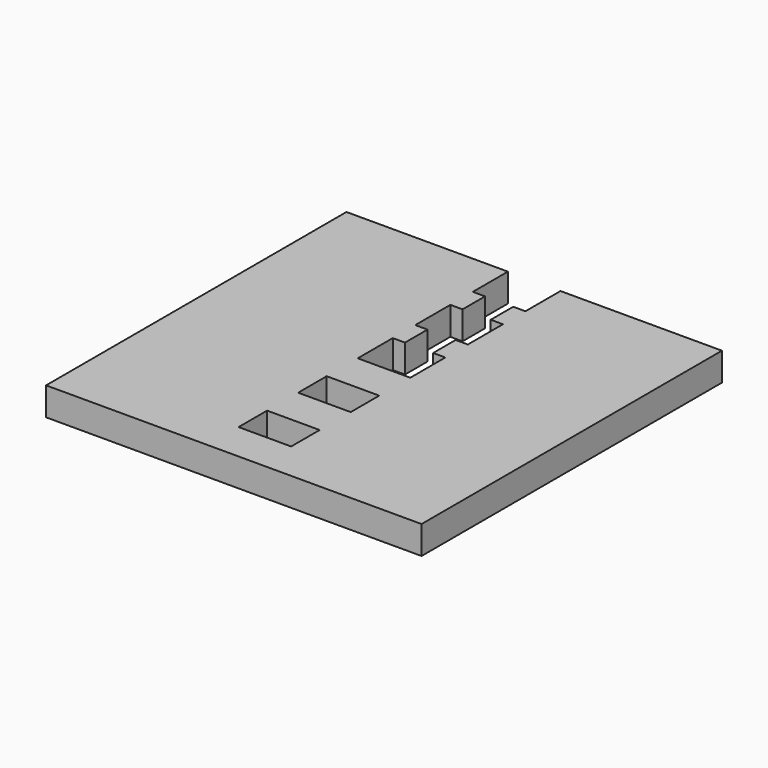
from build123d import *

# Parameters (mm, degrees)
F2_DEPTH = 1.875
F4_W     = 7
F4_H     = 4.75
F5_DEPTH = 25


with BuildPart() as f2:
    # F1 (on Top) → F2 (new body, symmetric)
    with BuildSketch(Plane.XY):
        Polygon((-25, -25), (0, -25), (0, 0), (-3.5, 0), (-3.5, 5.8333333333), (-1.875, 5.8333333333), (-1.875, 9.5833333333), (-3.5, 9.5833333333), (-3.5, 15.4166666667), (-1.875, 15.4166666667), (-1.875, 19.1666666667), (-3.5, 19.1666666667), (-3.5, 25), (-25, 25), align=None)
    extrude(amount=F2_DEPTH, both=True)

    # F3: F2 across face


with BuildPart() as f2_1:
    add(f2.part)
    add(f2.part.mirror(Plane(origin=(0, -12.5, 0), x_dir=(0, 1, 0), z_dir=(1, 0, 0))))

    # F4 (on face) → F5 (cut)
    with BuildSketch(Plane.XY.offset(1.875)):
        with Locations((0, -7.5416666667)):
            Rectangle(F4_W, F4_H)
        with Locations((0, -17.4583333333)):
            Rectangle(F4_W, F4_H)
    extrude(amount=-F5_DEPTH, mode=Mode.SUBTRACT)


solid = f2_1.part
